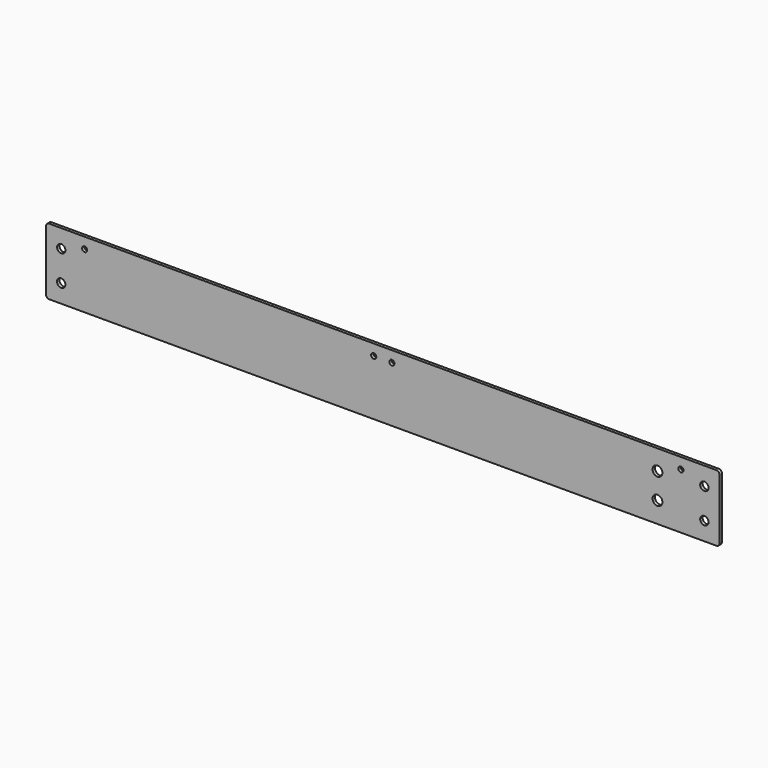
from build123d import *

# Parameters (mm, degrees)
SKETCH_W      = 445
SKETCH_H      = 44
PAD_DEPTH     = 2
SKETCH001_R   = 2.75
HOLE_DEPTH    = 25
SKETCH002_R   = 1.7
HOLE001_DEPTH = 25
SKETCH003_R   = 3.25
POCKET_DEPTH  = 2.001
FILLET_R      = 2


with BuildPart() as part:
    # Sketch → Pad (new body)
    with BuildSketch(Plane.XZ):
        with Locations((222.5, -22)):
            Rectangle(SKETCH_W, SKETCH_H)
    extrude(amount=PAD_DEPTH)

    # Sketch001 (on Face6 of Pad) → Hole (cut)
    with BuildSketch(Plane.XZ.offset(2)):
        with Locations((10, -32)):
            Circle(SKETCH001_R)
        with Locations((10, -12)):
            Circle(SKETCH001_R)
        with Locations((435, -32)):
            Circle(SKETCH001_R)
        with Locations((435, -12)):
            Circle(SKETCH001_R)
    extrude(amount=-HOLE_DEPTH, mode=Mode.SUBTRACT)

    # Sketch002 (on Face5 of Hole) → Hole001 (cut)
    with BuildSketch(Plane.XZ.offset(2)):
        with Locations((419.5, -7.25)):
            Circle(SKETCH002_R)
        with Locations((228.5, -7.25)):
            Circle(SKETCH002_R)
        with Locations((25.5, -7.25)):
            Circle(SKETCH002_R)
        with Locations((216.5, -7.25)):
            Circle(SKETCH002_R)
    extrude(amount=-HOLE001_DEPTH, mode=Mode.SUBTRACT)

    # Sketch003 (on Face5 of Hole001) → Pocket (cut, through all)
    with BuildSketch(Plane.XZ.offset(2)):
        with Locations((404, -13.25)):
            Circle(SKETCH003_R)
        with Locations((404, -30.25)):
            Circle(SKETCH003_R)
    extrude(amount=-POCKET_DEPTH, mode=Mode.SUBTRACT)

    # Fillet
    fillet_edges = [part.edges().sort_by_distance(p)[0] for p in [
        (445, -1, 0),
        (445, -1, -44),
        (0, -1, -44),
        (0, -1, 0),
    ]]
    fillet(fillet_edges, radius=FILLET_R)


solid = part.part
